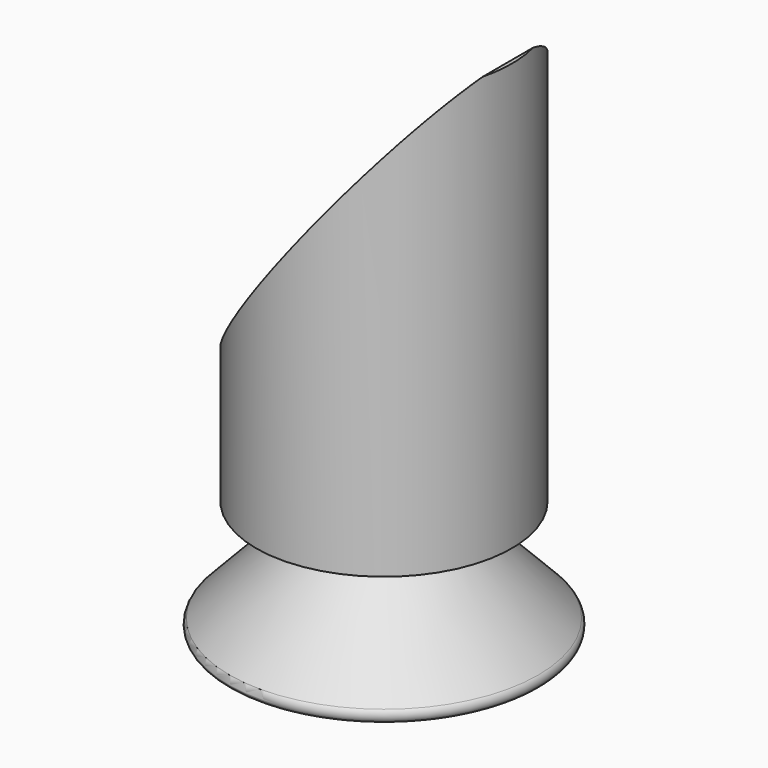
from build123d import *

# Parameters (mm, degrees)
F3_DEPTH = 18.7
F4_R     = 0.714298


with BuildPart() as f1:
    # F0 (on Front) → F1 (revolve)
    with BuildSketch(Plane.XZ):
        Polygon((-15.42939, 0), (0, 0), (0, 50.195612), (-11.82252, 50.195612), (-11.82252, 10.720421), (-5.209924, 10.720421), align=None)
    revolve(axis=Axis((0, 0, 25.097806), (0, 0, -1)))

    # F2 (on Front) → F3 (cut, symmetric)
    with BuildSketch(Plane.XZ):
        Polygon((-17.032443, 13.125001), (14.227101, 53.802483), (-17.032443, 55.806302), align=None)
    extrude(amount=F3_DEPTH, both=True, mode=Mode.SUBTRACT)

    # F4
    f4_edges = [f1.edges().sort_by_distance(p)[0] for p in [
        (15.42939, 0, 0),
    ]]
    fillet(f4_edges, radius=F4_R)


solid = f1.part
